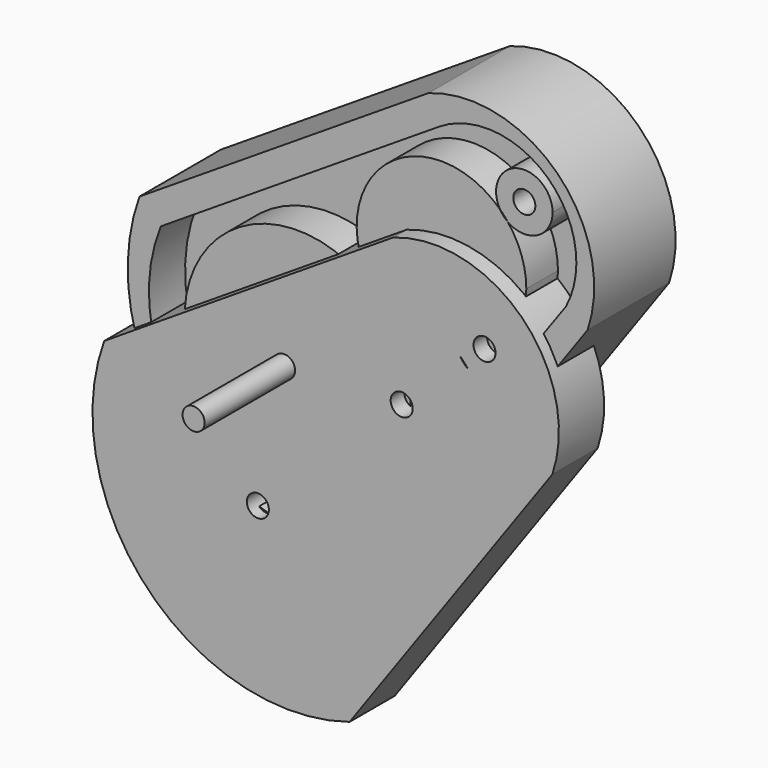
from build123d import *

# Parameters (mm, degrees)
F1_DEPTH = 8
F0_R     = 1.95
F2_DEPTH = 10
F3_R     = 1.95
F4_DEPTH = 10
F5_DEPTH = 30
F6_DEPTH = 7
F7_DEPTH = 7
F8_DEPTH = 7


with BuildPart() as f1:
    # F0 (on Front) → F1 (new body)
    with BuildSketch(Plane.XZ):
        with BuildLine():
            Line((10.4495781408, 55.8928779492), (-40.6816266477, 23.1477748603))
            ThreePointArc((-40.6816266477, 23.1477748603), (-33.0124627928, -12.9281223284), (2.7235143352, -22.0509711653))
            Line((2.7235143352, -22.0509711653), (38.5955311358, 28.1698592007))
            ThreePointArc((38.5955311358, 28.1698592007), (33.2032838752, 50.8445284722), (10.4495781408, 55.8928779492))
        make_face()
        with BuildLine():
            ThreePointArc((0, -17.7870281041), (-30.7987331987, -11.1539709039), (-36.8864415109, 19.7571795434))
            Line((-36.8864415109, 19.7571795434), (12.3046208173, 51.2597896159))
            ThreePointArc((12.3046208173, 51.2597896159), (31.5216693092, 49.5661200011), (34.74483639, 30.5457450449))
            Line((34.74483639, 30.5457450449), (0, -17.7870281041))
        make_face(mode=Mode.SUBTRACT)
    extrude(amount=F1_DEPTH)

    # F0 (on Front) → F2 (join)
    with BuildSketch(Plane.XZ):
        with BuildLine():
            Line((10.4495781408, 55.8928779492), (-40.6816266477, 23.1477748603))
            ThreePointArc((-40.6816266477, 23.1477748603), (-33.0124627928, -12.9281223284), (2.7235143352, -22.0509711653))
            Line((2.7235143352, -22.0509711653), (38.5955311358, 28.1698592007))
            ThreePointArc((38.5955311358, 28.1698592007), (33.2032838752, 50.8445284722), (10.4495781408, 55.8928779492))
        make_face()
        with BuildLine():
            ThreePointArc((0, -17.7870281041), (-30.7987331987, -11.1539709039), (-36.8864415109, 19.7571795434))
            Line((-36.8864415109, 19.7571795434), (12.3046208173, 51.2597896159))
            ThreePointArc((12.3046208173, 51.2597896159), (31.5216693092, 49.5661200011), (34.74483639, 30.5457450449))
            Line((34.74483639, 30.5457450449), (0, -17.7870281041))
        make_face(mode=Mode.SUBTRACT)
        with BuildLine():
            Line((12.3046208173, 51.2597896159), (-36.8864415109, 19.7571795434))
            ThreePointArc((-36.8864415109, 19.7571795434), (-30.7987331987, -11.1539709039), (0, -17.7870281041))
            Line((0, -17.7870281041), (34.74483639, 30.5457450449))
            ThreePointArc((34.74483639, 30.5457450449), (31.5216693092, 49.5661200011), (12.3046208173, 51.2597896159))
        make_face()
        with BuildLine():
            ThreePointArc((6.4980118465, 6.3371546272), (-32.0870104837, -1.0518199286), (1.0383173479, 20.0695803388))
            ThreePointArc((1.0383173479, 20.0695803388), (5.0830341767, 13.7261291829), (6.4980118465, 6.3371546272))
        make_face(mode=Mode.SUBTRACT)
        with BuildLine():
            ThreePointArc((22.3092190592, 41.2110779919), (25.2552786482, 48.6070210465), (31.5932027251, 43.7893494964))
            ThreePointArc((31.5932027251, 43.7893494964), (28.8609767731, 39.3332075701), (23.6503223783, 39.7471402904))
            ThreePointArc((23.6503223783, 39.7471402904), (26.0963136897, 35.338726645), (26.9435465019, 30.368899593))
            ThreePointArc((26.9435465019, 30.368899593), (17.4852773998, 16.4301328378), (1.0383173479, 20.0695803388))
            ThreePointArc((1.0383173479, 20.0695803388), (1.3693557014, 41.0078134903), (22.3092190592, 41.2110779919))
        make_face(mode=Mode.SUBTRACT)
        with BuildLine():
            ThreePointArc((23.6503223783, 39.7471402904), (22.9063789887, 40.4118754791), (22.3092190592, 41.2110779919))
            ThreePointArc((22.3092190592, 41.2110779919), (1.3693557014, 41.0078134903), (1.0383173479, 20.0695803388))
            ThreePointArc((1.0383173479, 20.0695803388), (17.4852773998, 16.4301328378), (26.9435465019, 30.368899593))
            ThreePointArc((26.9435465019, 30.368899593), (26.0963136897, 35.338726645), (23.6503223783, 39.7471402904))
        make_face()
        with Locations((11.9435465019, 30.368899593)):
            Circle(F0_R, mode=Mode.SUBTRACT)
        with BuildLine():
            ThreePointArc((6.4980118465, 6.3371546272), (5.0830341767, 13.7261291829), (1.0383173479, 20.0695803388))
            ThreePointArc((1.0383173479, 20.0695803388), (-32.0870104837, -1.0518199286), (6.4980118465, 6.3371546272))
        make_face()
        with Locations((-13.5019881535, 6.3371546272)):
            Circle(F0_R, mode=Mode.SUBTRACT)
        with BuildLine():
            ThreePointArc((23.6503223783, 39.7471402904), (28.8609767731, 39.3332075701), (31.5932027251, 43.7893494964))
            ThreePointArc((31.5932027251, 43.7893494964), (25.2552786482, 48.6070210465), (22.3092190592, 41.2110779919))
            ThreePointArc((22.3092190592, 41.2110779919), (23.0040177108, 40.5013216448), (23.6503223783, 39.7471402904))
        make_face()
        with Locations((26.5932027251, 43.7893494964)):
            Circle(F0_R, mode=Mode.SUBTRACT)
    extrude(amount=-F2_DEPTH)


with BuildPart() as f4:
    # F3 (on Front) → F4 (new body)
    with BuildSketch(Plane.XZ):
        with BuildLine():
            Line((5.8101353426, 32.7086040703), (-45.321069446, -0.0364990186))
            ThreePointArc((-45.321069446, -0.0364990186), (-37.6519055911, -36.1123962072), (-1.915928463, -45.2352450442))
            Line((-1.915928463, -45.2352450442), (33.9560883375, 4.9855853219))
            ThreePointArc((33.9560883375, 4.9855853219), (28.563841077, 27.6602545933), (5.8101353426, 32.7086040703))
        make_face()
        with BuildLine():
            ThreePointArc((-4.6394427983, -40.9713019829), (-35.438175997, -34.3382447827), (-41.5258843092, -3.4270943355))
            Line((-41.5258843092, -3.4270943355), (7.665178019, 28.075515737))
            ThreePointArc((7.665178019, 28.075515737), (26.8822265109, 26.3818461222), (30.1053935917, 7.3614711661))
            Line((30.1053935917, 7.3614711661), (-4.6394427983, -40.9713019829))
        make_face(mode=Mode.SUBTRACT)
        with BuildLine():
            Line((7.665178019, 28.075515737), (-41.5258843092, -3.4270943355))
            ThreePointArc((-41.5258843092, -3.4270943355), (-35.438175997, -34.3382447827), (-4.6394427983, -40.9713019829))
            Line((-4.6394427983, -40.9713019829), (30.1053935917, 7.3614711661))
            ThreePointArc((30.1053935917, 7.3614711661), (26.8822265109, 26.3818461222), (7.665178019, 28.075515737))
        make_face()
        with BuildLine():
            ThreePointArc((1.8585690482, -16.8471192517), (-36.7264532433, -24.2360939047), (-3.6011255941, -3.1146933879))
            ThreePointArc((-3.6011255941, -3.1146933879), (0.4435913397, -9.4581445987), (1.8585690482, -16.8471192517))
        make_face(mode=Mode.SUBTRACT)
        with BuildLine():
            ThreePointArc((17.6697762609, 18.026804113), (20.6158358499, 25.4227471676), (26.9537599268, 20.6050756175))
            ThreePointArc((26.9537599268, 20.6050756175), (24.2215339748, 16.1489336913), (19.01087958, 16.5628664116))
            ThreePointArc((19.01087958, 16.5628664116), (21.4568708914, 12.1544527661), (22.3041037036, 7.1846257141))
            ThreePointArc((22.3041037036, 7.1846257141), (12.8458345043, -6.7541410797), (-3.6011255941, -3.1146933879))
            ThreePointArc((-3.6011255941, -3.1146933879), (-3.2700870226, 17.8235396853), (17.6697762609, 18.026804113))
        make_face(mode=Mode.SUBTRACT)
        with BuildLine():
            ThreePointArc((1.8585690482, -16.8471192517), (0.4435913397, -9.4581445987), (-3.6011255941, -3.1146933879))
            ThreePointArc((-3.6011255941, -3.1146933879), (-36.7264532433, -24.2360939047), (1.8585690482, -16.8471192517))
        make_face()
        with Locations((-18.1414309518, -16.8471192517)):
            Circle(F3_R, mode=Mode.SUBTRACT)
        with BuildLine():
            ThreePointArc((19.01087958, 16.5628664116), (18.2669361905, 17.2276016002), (17.6697762609, 18.026804113))
            ThreePointArc((17.6697762609, 18.026804113), (-3.2700870226, 17.8235396853), (-3.6011255941, -3.1146933879))
            ThreePointArc((-3.6011255941, -3.1146933879), (12.8458345043, -6.7541410797), (22.3041037036, 7.1846257141))
            ThreePointArc((22.3041037036, 7.1846257141), (21.4568708914, 12.1544527661), (19.01087958, 16.5628664116))
        make_face()
        with Locations((7.3041037036, 7.1846257141)):
            Circle(F3_R, mode=Mode.SUBTRACT)
        with BuildLine():
            ThreePointArc((19.01087958, 16.5628664116), (24.2215339748, 16.1489336913), (26.9537599268, 20.6050756175))
            ThreePointArc((26.9537599268, 20.6050756175), (20.6158358499, 25.4227471676), (17.6697762609, 18.026804113))
            ThreePointArc((17.6697762609, 18.026804113), (18.3645749125, 17.3170477659), (19.01087958, 16.5628664116))
        make_face()
        with Locations((21.9537599268, 20.6050756175)):
            Circle(F3_R, mode=Mode.SUBTRACT)
    extrude(amount=F4_DEPTH)


with BuildPart() as f5:
    # F0 (on Front) → F5 (new body)
    with BuildSketch(Plane.XZ):
        with Locations((-13.5019881535, 6.3371546272)):
            Circle(F0_R)
    extrude(amount=F5_DEPTH)


with BuildPart() as f6:
    # F0 (on Front) → F6 (new body)
    with BuildSketch(Plane.XZ):
        with BuildLine():
            ThreePointArc((6.4980118465, 6.3371546272), (5.0830341767, 13.7261291829), (1.0383173479, 20.0695803388))
            ThreePointArc((1.0383173479, 20.0695803388), (-32.0870104837, -1.0518199286), (6.4980118465, 6.3371546272))
        make_face()
        with Locations((-13.5019881535, 6.3371546272)):
            Circle(F0_R, mode=Mode.SUBTRACT)
    extrude(amount=F6_DEPTH)


with BuildPart() as f7:
    # F0 (on Front) → F7 (new body)
    with BuildSketch(Plane.XZ):
        with BuildLine():
            ThreePointArc((23.6503223783, 39.7471402904), (22.9063789887, 40.4118754791), (22.3092190592, 41.2110779919))
            ThreePointArc((22.3092190592, 41.2110779919), (1.3693557014, 41.0078134903), (1.0383173479, 20.0695803388))
            ThreePointArc((1.0383173479, 20.0695803388), (17.4852773998, 16.4301328378), (26.9435465019, 30.368899593))
            ThreePointArc((26.9435465019, 30.368899593), (26.0963136897, 35.338726645), (23.6503223783, 39.7471402904))
        make_face()
        with Locations((11.9435465019, 30.368899593)):
            Circle(F0_R, mode=Mode.SUBTRACT)
    extrude(amount=F7_DEPTH)


with BuildPart() as f8:
    # F0 (on Front) → F8 (new body)
    with BuildSketch(Plane.XZ):
        with BuildLine():
            ThreePointArc((23.6503223783, 39.7471402904), (28.8609767731, 39.3332075701), (31.5932027251, 43.7893494964))
            ThreePointArc((31.5932027251, 43.7893494964), (25.2552786482, 48.6070210465), (22.3092190592, 41.2110779919))
            ThreePointArc((22.3092190592, 41.2110779919), (23.0040177108, 40.5013216448), (23.6503223783, 39.7471402904))
        make_face()
        with Locations((26.5932027251, 43.7893494964)):
            Circle(F0_R, mode=Mode.SUBTRACT)
    extrude(amount=F8_DEPTH)


solid = Compound([f1.part, f4.part, f5.part, f6.part, f7.part, f8.part])
